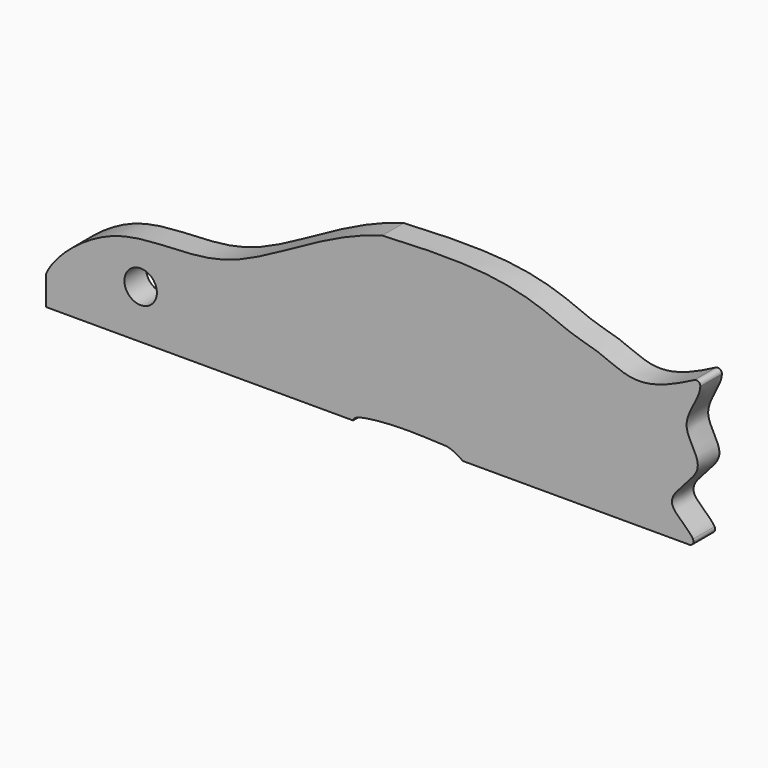
from build123d import *

# Parameters (mm, degrees)
F0_R     = 3
F1_DEPTH = 5


with BuildPart() as f1:
    # F0 (on Front) → F1 (new body)
    with BuildSketch(Plane.XZ):
        with BuildLine():
            Line((10.9473178163, 8.2734189928), (48.8227154315, 8.2734189928))
            Line((48.8227154315, 8.2734189928), (52.8647966023, 8.2734189928))
            ThreePointArc((52.8647966023, 8.2734189928), (53.5113312928, 8.6457190391), (53.5138694303, 9.391780691))
            add(Edge.make_bspline(
                [(54.8741780221, 34.7152911127), (54.7853917857, 32.4825209411), (49.8435798167, 27.4113618396), (57.5886340879, 20.9494163736), (46.1210834861, 14.3401157668), (52.5714889524, 11.0412658068), (53.5138694303, 9.391780691)],
                knots=[0, 0, 0, 0, 0.2533220978, 0.4893211117, 0.7552418242, 0.9561197971, 0.9561197971, 0.9561197971, 0.9561197971], degree=3))
            ThreePointArc((54.8741780221, 34.7152911127), (54.5271493937, 35.3791008895), (53.7786876635, 35.4087205995))
            add(Edge.make_bspline(
                [(-3.9851918418, 40.1480031486), (2.8203642164, 40.5335278502), (20.8872001673, 40.8490917009), (29.807778368, 35.524007941), (36.117061665, 34.4445122433), (42.5723950508, 30.9023510357), (48.166177093, 32.4494890796), (53.7786876635, 35.4087205995)],
                knots=[0.3154885814, 0.3154885814, 0.3154885814, 0.3154885814, 0.4162843925, 0.6115687446, 0.7207793214, 0.8366278486, 0.9995743823, 0.9995743823, 0.9995743823, 0.9995743823], degree=3))
            add(Edge.make_bspline(
                [(-3.9851918418, 40.1480031486), (-15.6586702779, 36.8957402817), (-31.7957906872, 22.9301661804), (-53.0611001267, 27.4306729887), (-64.6431266616, 17.2730791538), (-66.1772845685, 13.7014202774)],
                knots=[0, 0, 0, 0, 0.3435358191, 0.6145535166, 0.8593280333, 0.8593280333, 0.8593280333, 0.8593280333], degree=3))
            Line((-66.1772845685, 13.7014202774), (-66.1772845685, 8.2734189928))
            Line((-66.1772845685, 8.2734189928), (-51.1772845685, 8.2734189928))
            Line((-51.1772845685, 8.2734189928), (-9.3690920621, 8.2734189928))
            add(Edge.make_bspline(
                [(-9.3690920621, 8.2734189928), (-9.4357668626, 9.5134445817), (0.7605605094, 10.1604030053), (5.2045478879, 9.7462324092), (7.6452607591, 9.8222018536), (9.1535961169, 9.4996455169), (10.9473178163, 8.2734189928)],
                knots=[0, 0, 0, 0, 0.3517402558, 0.6193366257, 0.7767309892, 1, 1, 1, 1], degree=3))
        make_face()
        with Locations((-48.6772845685, 17.2734189928)):
            Circle(F0_R, mode=Mode.SUBTRACT)
    extrude(amount=F1_DEPTH)


solid = f1.part
